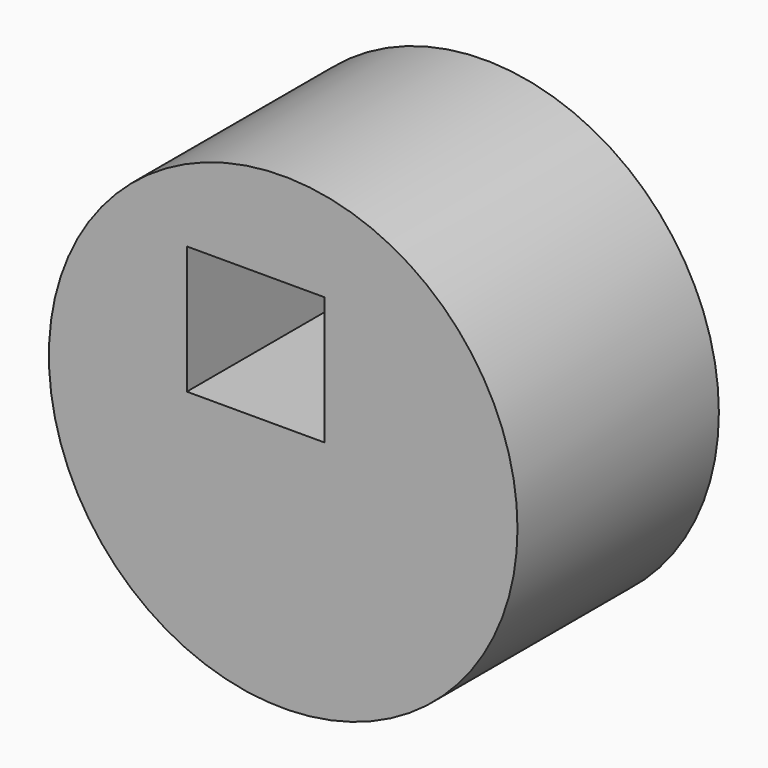
from build123d import *

# Parameters (mm, degrees)
F0_R     = 51.778761
F1_DEPTH = 55.626
F2_W     = 30.403304
F2_H     = 28.259708
F3_DEPTH = 110.998


with BuildPart() as f1:
    # F0 (on Front) → F1 (new body)
    with BuildSketch(Plane.XZ):
        Circle(F0_R)
    extrude(amount=F1_DEPTH)

    # F2 (on face) → F3 (cut)
    with BuildSketch(Plane.XZ.offset(55.626)):
        with Locations((-6.091219, 17.017909)):
            Rectangle(F2_W, F2_H)
    extrude(amount=-F3_DEPTH, mode=Mode.SUBTRACT)


solid = f1.part
